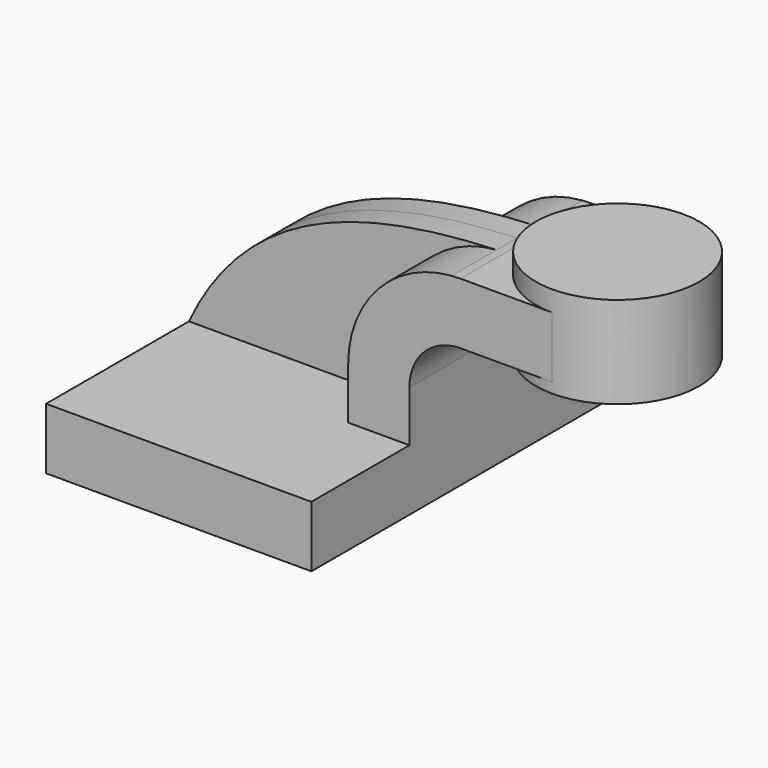
from build123d import *

# Parameters (mm, degrees)
F1_DEPTH = 63.5
F0_W     = 25.4
F0_H     = 19.05
F2_DEPTH = 25.4
F3_DEPTH = 7.9375


with BuildPart() as f1:
    # F0 (on Front) → F1 (new body, symmetric)
    with BuildSketch(Plane.XZ):
        Polygon((22.225, 9.525), (-41.275, 9.525), (-41.275, -9.525), (41.275, -9.525), (41.275, 9.525), align=None)
    extrude(amount=F1_DEPTH, both=True)

    # F0 (on Front) → F2 (join, symmetric)
    with BuildSketch(Plane.XZ):
        with BuildLine():
            Line((22.225, 25.4), (22.225, 9.525))
            Line((22.225, 9.525), (41.275, 9.525))
            Line((41.275, 9.525), (41.275, 25.4))
            ThreePointArc((41.275, 25.4), (45.9246798487, 36.6253201513), (57.15, 41.275))
            Line((57.15, 41.275), (60.325, 41.275))
            Line((60.325, 41.275), (60.325, 60.325))
            Line((60.325, 60.325), (57.15, 60.325))
            add(Edge.make_bspline(
                [(54.4736162544, 60.222300255), (55.3644540215, 60.2602361648), (56.2566409869, 60.2943854647), (57.15, 60.325)],
                knots=[108.3462442053, 108.3462442053, 108.3462442053, 108.3462442053, 110.761548495, 110.761548495, 110.761548495, 110.761548495], degree=3))
            ThreePointArc((54.4736162544, 60.222300255), (31.5255163241, 49.1306017906), (22.225, 25.4))
        make_face()
        with Locations((73.025, 50.8)):
            Rectangle(F0_W, F0_H)
    extrude(amount=F2_DEPTH, both=True)

    # F0 (on Front) → F3 (join, symmetric)
    with BuildSketch(Plane.XZ):
        with BuildLine():
            add(Edge.make_bspline(
                [(-41.275, 9.525), (-22.7342342872, 49.1991834723), (14.5122222919, 58.5205629773), (54.4736162544, 60.222300255)],
                knots=[0, 0, 0, 0, 108.3462442053, 108.3462442053, 108.3462442053, 108.3462442053], degree=3))
            Line((-41.275, 9.525), (22.225, 9.525))
            Line((22.225, 9.525), (22.225, 25.4))
            ThreePointArc((22.225, 25.4), (31.5255163241, 49.1306017906), (54.4736162544, 60.222300255))
        make_face()
    extrude(amount=F3_DEPTH, both=True)

    # F0 (on Front) → F4 (revolve)
    with BuildSketch(Plane.XZ):
        Polygon((85.725, 66.675), (85.725, 60.325), (85.725, 41.275), (85.725, 38.1), (111.125, 38.1), (111.125, 66.675), align=None)
    revolve(axis=Axis((85.725, 0, 53.975), (0, 0, -1)))


solid = f1.part
